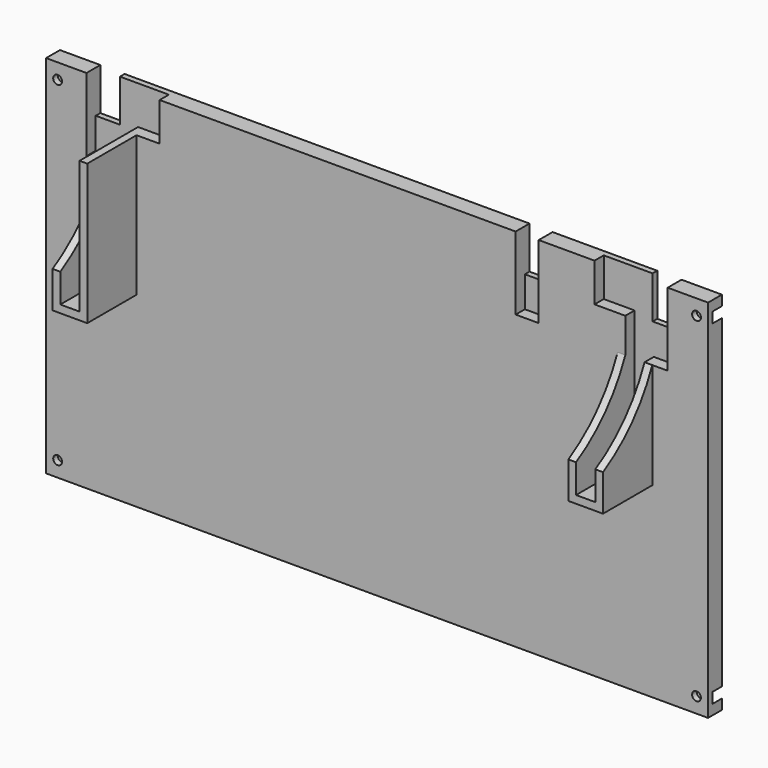
from build123d import *

# Parameters (mm, degrees)
SKETCH097_W     = 172
SKETCH097_H     = 95
PAD059_DEPTH    = 4.5
SKETCH098_W     = 6
SKETCH098_H     = 19
POCKET036_DEPTH = 3
SKETCH099_W     = 6.3
SKETCH099_H     = 11
SKETCH099_W_2   = 6
POCKET037_DEPTH = 5
PAD060_DEPTH    = 16
POCKET038_DEPTH = 5
POCKET039_DEPTH = 9
SKETCH103_R     = 1.15
POCKET040_DEPTH = 5
SKETCH104_R     = 3.3
POCKET041_DEPTH = 3


with BuildPart() as part:
    # Sketch097 → Pad059 (new body)
    with BuildSketch(Plane.XZ):
        Rectangle(SKETCH097_W, SKETCH097_H)
    extrude(amount=PAD059_DEPTH)

    # Sketch098 (on Face6 of Pad059) → Pocket036 (cut)
    with BuildSketch(Plane.XZ.offset(4.5)):
        Polygon((64.5, 3), (69.5, 3), (69.5, 28.5), (75.5, 28.5), (75.5, 47.5), (56.5, 47.5), (56.5, 37.5), (64.5, 37.5), align=None)
        with Locations((39, 38)):
            Rectangle(SKETCH098_W, SKETCH098_H)
        Polygon((-64.5, 3), (-69.5, 3), (-69.5, 28.5), (-75.5, 28.5), (-75.5, 47.5), (-56.5, 47.5), (-56.5, 37.5), (-64.5, 37.5), align=None)
    extrude(amount=-POCKET036_DEPTH, mode=Mode.SUBTRACT)

    # Sketch099 (on Face26 of Pocket036) → Pocket037 (cut)
    with BuildSketch(Plane.XZ.offset(1.5)):
        with Locations((72.35, 42)):
            Rectangle(SKETCH099_W, SKETCH099_H)
        with Locations((39, 42)):
            Rectangle(SKETCH099_W_2, SKETCH099_H)
        with Locations((-72.35, 42)):
            Rectangle(SKETCH099_W, SKETCH099_H)
    extrude(amount=-POCKET037_DEPTH, mode=Mode.SUBTRACT)

    # Sketch100 (on Face5 of Pocket037) → Pad060 (join)
    with BuildSketch(Plane.XZ.offset(4.5)):
        Polygon((-69.5, 28.5), (-71.5, 28.5), (-71.5, 1), (-62.5, 1), (-62.5, 37.5), (-64.5, 37.5), (-64.5, 3), (-69.5, 3), align=None)
        Polygon((64.5, 37.5), (64.5, 3), (69.5, 3), (69.5, 28.5), (71.5, 28.5), (71.5, 1), (62.5, 1), (62.5, 37.5), align=None)
    extrude(amount=PAD060_DEPTH)

    # Sketch101 (on Face27 of Pad060) → Pocket038 (cut)
    with BuildSketch(Plane(origin=(-71.5, 0, 0), x_dir=(0, 0, -1), z_dir=(-1, 0, 0))):
        with BuildLine():
            ThreePointArc((-28.5, 4.5), (-18.161779, 10.994502), (-10.5, 20.5))
            Line((-28.5, 20.5), (-10.5, 20.5))
            Line((-28.5, 4.5), (-28.5, 20.5))
        make_face()
    extrude(amount=-POCKET038_DEPTH, mode=Mode.SUBTRACT)

    # Sketch102 (on Face22 of Pocket038) → Pocket039 (cut)
    with BuildSketch(Plane(origin=(62.5, 0, 0), x_dir=(0, 0, -1), z_dir=(-1, 0, 0))):
        with BuildLine():
            Line((-37.5, 20.5), (-10.5, 20.5))
            ThreePointArc((-28.5, 4.5), (-18.161779, 10.994501), (-10.5, 20.5))
            Line((-37.5, 4.5), (-28.5, 4.5))
            Line((-37.5, 20.5), (-37.5, 4.5))
        make_face()
    extrude(amount=-POCKET039_DEPTH, mode=Mode.SUBTRACT)

    # Sketch103 (on Face4 of Pocket039) → Pocket040 (cut)
    with BuildSketch(Plane(origin=(0, 0, 0), x_dir=(1, 0, 0), z_dir=(0, 1, 0))):
        with Locations((-83, 43.5)):
            Circle(SKETCH103_R)
        with Locations((83, 43.5)):
            Circle(SKETCH103_R)
        with Locations((83, -43.5)):
            Circle(SKETCH103_R)
        with Locations((-83, -43.5)):
            Circle(SKETCH103_R)
    extrude(amount=-POCKET040_DEPTH, mode=Mode.SUBTRACT)

    # Sketch104 (on Face4 of Pocket040) → Pocket041 (cut)
    with BuildSketch(Plane(origin=(0, 0, 0), x_dir=(1, 0, 0), z_dir=(0, 1, 0))):
        with Locations((83, 43.5)):
            Circle(SKETCH104_R)
        with Locations((83, -43.5)):
            Circle(SKETCH104_R)
        with Locations((-83, -43.5)):
            Circle(SKETCH104_R)
        with Locations((-83, 43.5)):
            Circle(SKETCH104_R)
    extrude(amount=-POCKET041_DEPTH, mode=Mode.SUBTRACT)


with BuildPart() as part_1:
    # Body021 placement: moved
    add(part.part.moved(Location((0, -4, -56))))


solid = part_1.part
